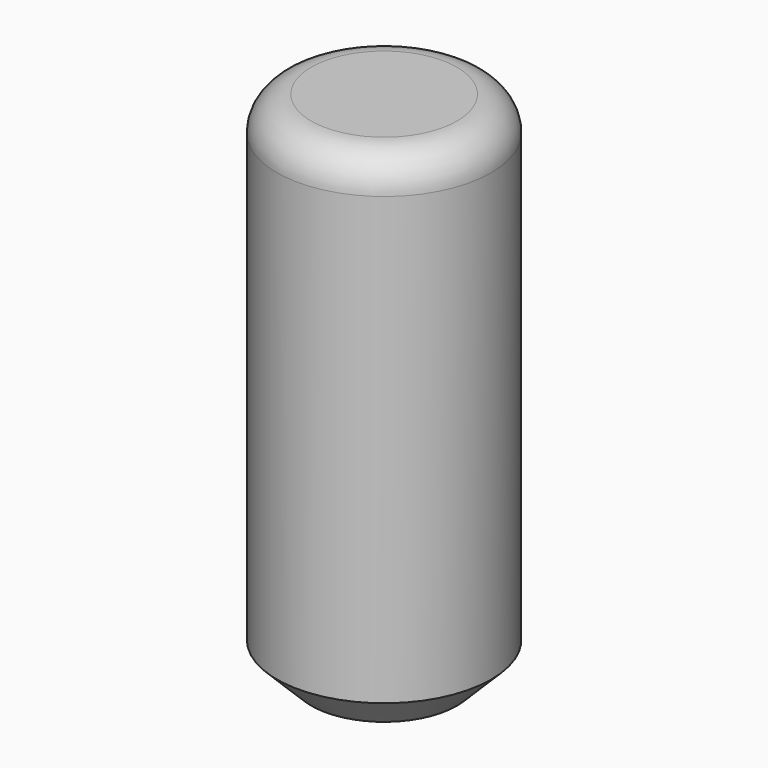
from build123d import *

# Parameters (mm, degrees)
F0_R          = 31.75
F1_DEPTH      = 76.2
F1_DEPTH_BACK = 76.2
F2_R          = 10.16
F3_SIZE       = 10.16


with BuildPart() as f1:
    # F0 (on Top) → F1 (new body, two sides)
    with BuildSketch(Plane.XY) as f1_sk:
        Circle(F0_R)
    extrude(amount=-F1_DEPTH)
    extrude(f1_sk.sketch, amount=F1_DEPTH_BACK)

    # F2
    f2_edges = [f1.edges().sort_by_distance(p)[0] for p in [
        (-31.75, 0, 76.2),
    ]]
    fillet(f2_edges, radius=F2_R)

    # F3
    f3_edges = [f1.edges().sort_by_distance(p)[0] for p in [
        (-31.75, 0, -76.2),
    ]]
    chamfer(f3_edges, length=F3_SIZE)


solid = f1.part
